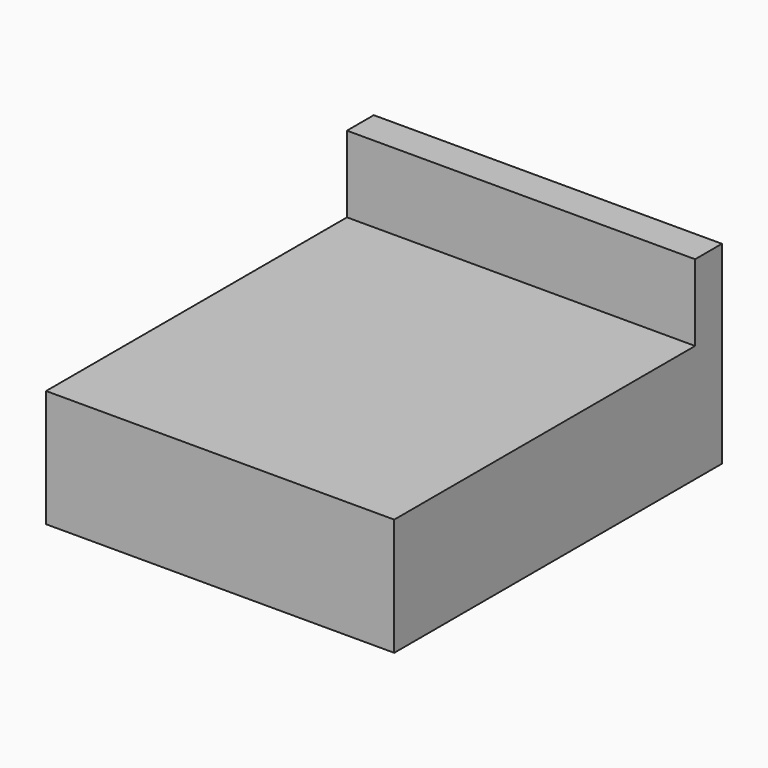
from build123d import *

# Parameters (mm, degrees)
SKETCH_W     = 1870
SKETCH_H     = 2200
PAD_DEPTH    = 630
SKETCH001_W  = 1870
SKETCH001_H  = 180
PAD001_DEPTH = 410


with BuildPart() as part:
    # Sketch → Pad (new body)
    with BuildSketch(Plane.XY):
        Rectangle(SKETCH_W, SKETCH_H)
    extrude(amount=PAD_DEPTH)

    # Sketch001 (on Face6 of Pad) → Pad001 (join)
    with BuildSketch(Plane.XY.offset(630)):
        with Locations((0, 1010)):
            Rectangle(SKETCH001_W, SKETCH001_H)
    extrude(amount=PAD001_DEPTH)


solid = part.part
